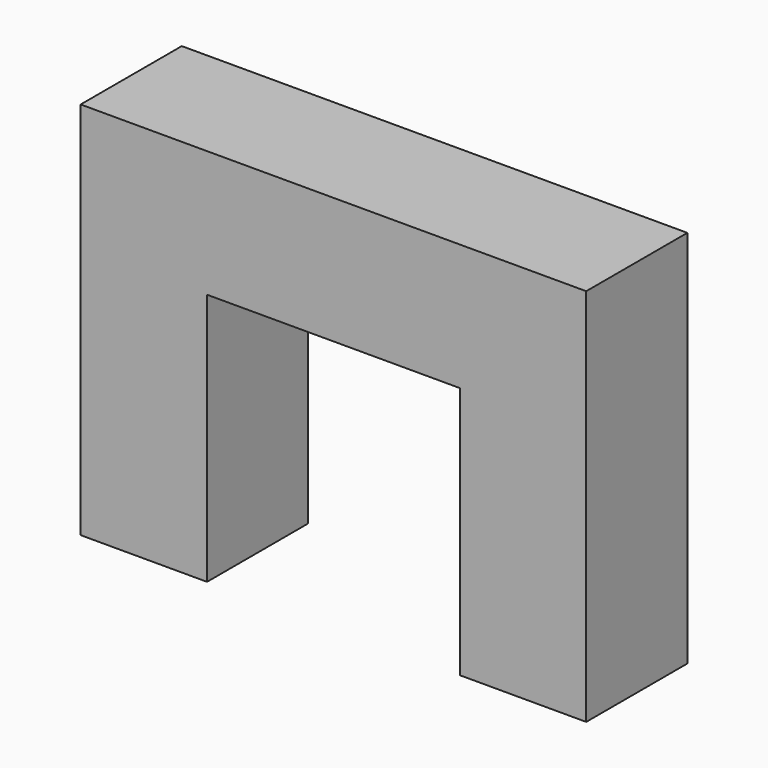
from build123d import *

# Parameters (mm, degrees)
PAD_DEPTH = 10


with BuildPart() as part:
    # Sketch → Pad (new body, symmetric)
    with BuildSketch(Plane.XZ):
        Polygon((-40, 0), (-20, 0), (-20, 40), (20, 40), (20, 0), (40, 0), (40, 60), (-40, 60), align=None)
    extrude(amount=PAD_DEPTH, both=True)


solid = part.part
